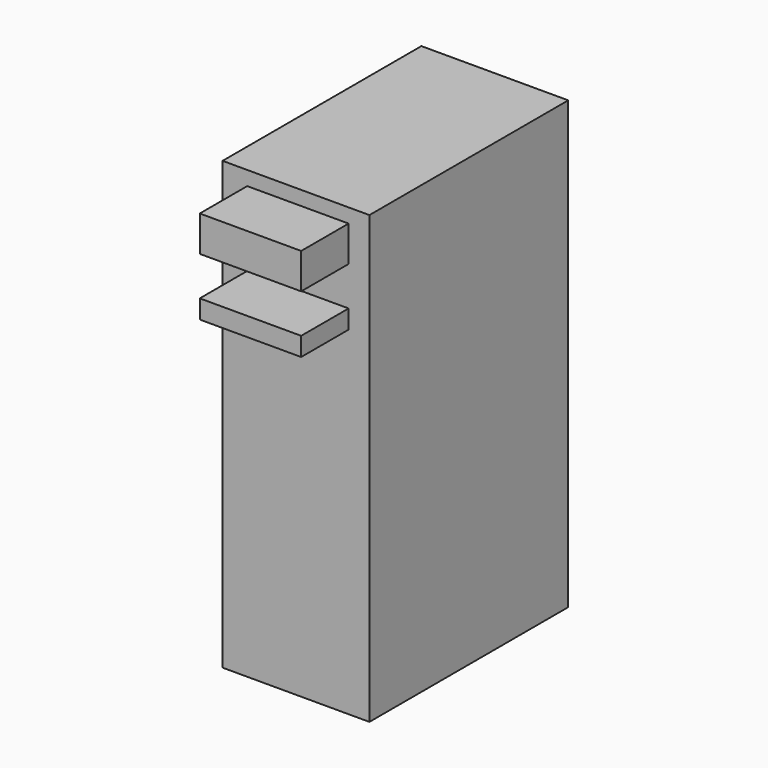
from build123d import *

# Parameters (mm, degrees)
F0_W     = 165.1
F0_H     = 501.65
F1_DEPTH = 279.4
F2_W     = 114
F2_H     = 40
F2_H_2   = 21
F3_DEPTH = 66.675


with BuildPart() as f1:
    # F0 (on Front) → F1 (new body)
    with BuildSketch(Plane.XZ):
        with Locations((82.55, 250.825)):
            Rectangle(F0_W, F0_H)
    extrude(amount=F1_DEPTH)

    # F2 (on face) → F3 (join)
    with BuildSketch(Plane.XZ.offset(279.4)):
        with Locations((84.7, 465.65)):
            Rectangle(F2_W, F2_H)
        with Locations((84.7, 391.15)):
            Rectangle(F2_W, F2_H_2)
    extrude(amount=F3_DEPTH)


solid = f1.part
